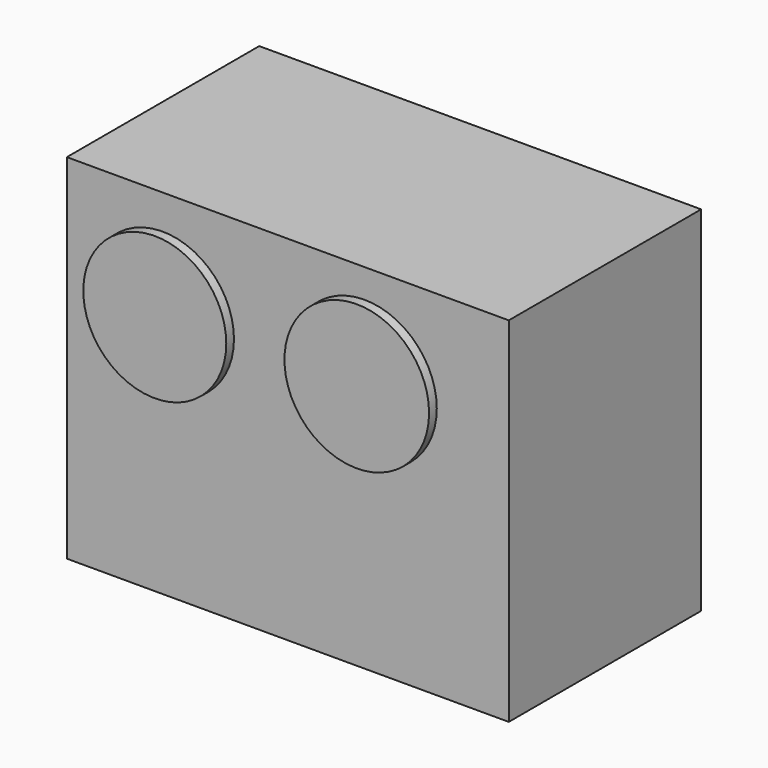
from build123d import *

# Parameters (mm, degrees)
F0_W     = 45.946047
F0_H     = 36.75684
F1_DEPTH = 25
F2_R     = 7.432436
F2_R_2   = 7.51837
F3_DEPTH = 1


with BuildPart() as f1:
    # F0 (on Front) → F1 (new body)
    with BuildSketch(Plane.XZ):
        with Locations((-32.391962, 23.432487)):
            Rectangle(F0_W, F0_H)
    extrude(amount=F1_DEPTH)

    # F2 (on face) → F3 (join)
    with BuildSketch(Plane.XZ.offset(25)):
        with Locations((-45.424916, 30.801646)):
            Circle(F2_R)
        with Locations((-24.423381, 31.302862)):
            Circle(F2_R_2)
    extrude(amount=F3_DEPTH)


solid = f1.part
